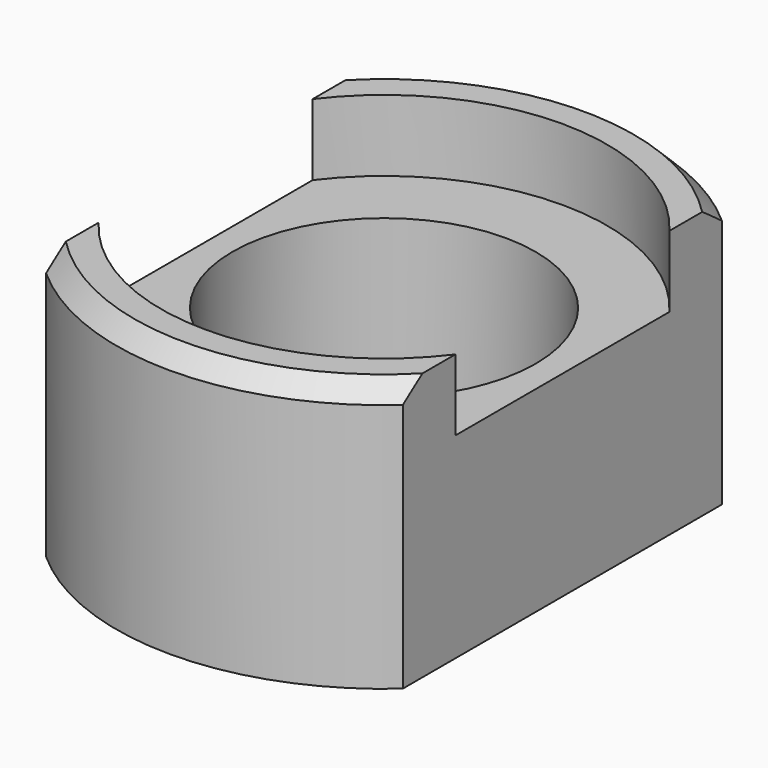
from build123d import *

# Parameters (mm, degrees)
F0_R     = 8.5
F1_DEPTH = 15
F2_R     = 8.5
F3_DEPTH = 4
F4_SIZE  = 1


with BuildPart() as f1:
    # F0 (on Top) → F1 (new body)
    with BuildSketch(Plane.XY):
        with BuildLine():
            Line((10, -11.1803398875), (10, 11.1803398875))
            ThreePointArc((10, 11.1803398875), (0, 15), (-10, 11.1803398875))
            Line((-10, 11.1803398875), (-10, -11.1803398875))
            ThreePointArc((-10, -11.1803398875), (0, -15), (10, -11.1803398875))
        make_face()
        Circle(F0_R, mode=Mode.SUBTRACT)
    extrude(amount=F1_DEPTH)

    # F2 (on face) → F3 (cut)
    with BuildSketch(Plane.XY.offset(15)):
        with BuildLine():
            Line((10, -7.5), (10, 7.5))
            ThreePointArc((10, 7.5), (0, 12.5), (-10, 7.5))
            Line((-10, 7.5), (-10, -7.5))
            ThreePointArc((-10, -7.5), (0, -12.5), (10, -7.5))
        make_face()
        Circle(F2_R, mode=Mode.SUBTRACT)
    extrude(amount=-F3_DEPTH, mode=Mode.SUBTRACT)

    # F4
    f4_edges = [f1.edges().sort_by_distance(p)[0] for p in [
        (0, -15, 15),
        (0, 15, 15),
    ]]
    chamfer(f4_edges, length=F4_SIZE)


solid = f1.part
